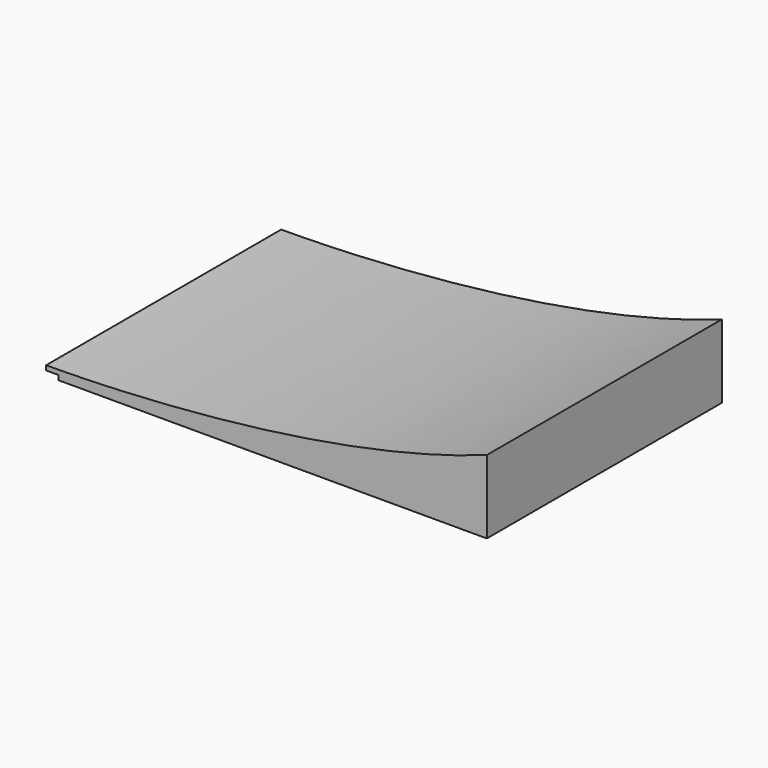
from build123d import *

# Parameters (mm, degrees)
F1_DEPTH = 1219.2
F2_T     = -19.05


with BuildPart() as f1:
    # F0 (on Front) → F1 (new body)
    with BuildSketch(Plane.XZ):
        with BuildLine():
            Line((-1778, 0), (0, 0))
            Line((0, 0), (0, 304.8))
            add(Edge.make_bspline(
                [(0, 304.8), (-762.4312639236, 30.0072385311), (-1787.0007753372, 39.029404521), (-1828.8, 38.1)],
                knots=[0, 0, 0, 0, 1848.1445641508, 1848.1445641508, 1848.1445641508, 1848.1445641508], degree=3))
            Line((-1828.8, 38.1), (-1828.8, 19.05))
            Line((-1828.8, 19.05), (-1778, 19.05))
            Line((-1778, 19.05), (-1778, 0))
        make_face()
    extrude(amount=F1_DEPTH)

    # F2
    f2_openings = [f1.faces().sort_by_distance(p)[0] for p in [
        (-889, -609.6, 0),
    ]]
    offset(amount=F2_T, openings=f2_openings, kind=Kind.INTERSECTION)


solid = f1.part
